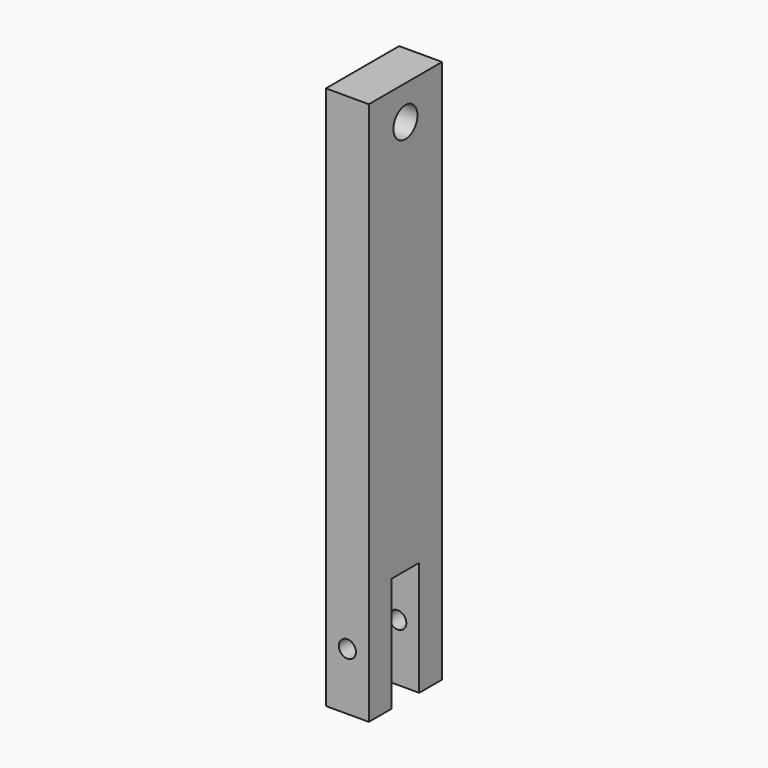
from build123d import *

# Parameters (mm, degrees)
F0_R          = 5.25
F1_DEPTH      = 15
F2_R          = 3
F3_DEPTH      = 25
F3_DEPTH_BACK = 25


with BuildPart() as f1:
    # F0 (on Right) → F1 (new body)
    with BuildSketch(Plane.YZ):
        Polygon((-6, -40), (-6, 0), (6, 0), (6, -40), (16, -40), (16, 150), (-16, 150), (-16, -40), align=None)
        with Locations((0, 138)):
            Circle(F0_R, mode=Mode.SUBTRACT)
    extrude(amount=-F1_DEPTH)

    # F2 (on Front) → F3 (cut, two sides)
    with BuildSketch(Plane.XZ) as f3_sk:
        with Locations((-7.5, -20)):
            Circle(F2_R)
    extrude(amount=-F3_DEPTH, mode=Mode.SUBTRACT)
    extrude(f3_sk.sketch, amount=F3_DEPTH_BACK, mode=Mode.SUBTRACT)


solid = f1.part
